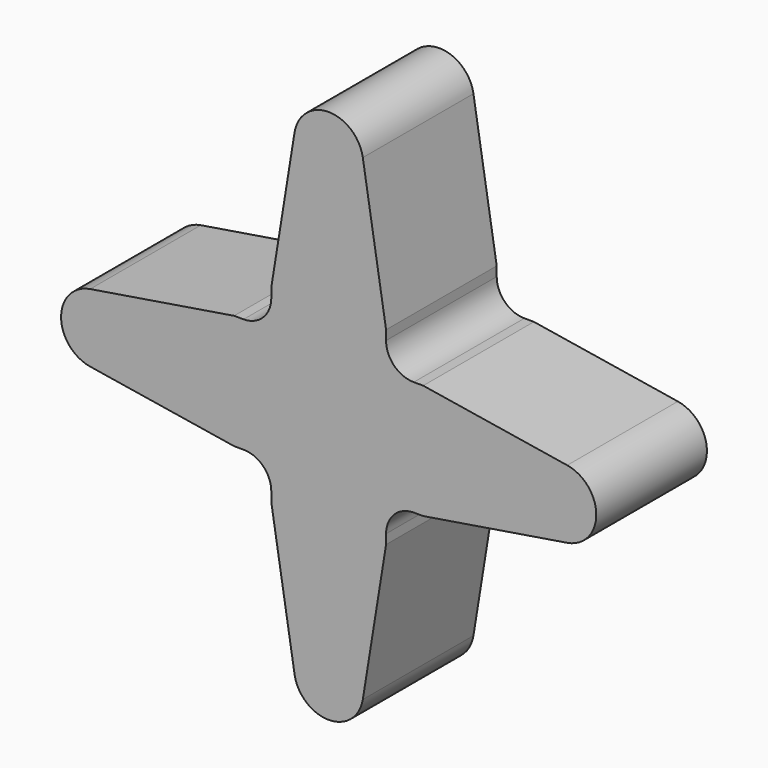
from build123d import *

# Parameters (mm, degrees)
PAD_DEPTH = 10


with BuildPart() as part:
    # Sketch → Pad (new body)
    with BuildSketch(Plane.XZ):
        with BuildLine():
            Line((-6.836766, 4.15), (-6.15, 4.15))
            ThreePointArc((-6.15, 4.15), (-4.735786, 4.735786), (-4.15, 6.15))
            Line((-4.15, 6.15), (-4.15, 6.836766))
            Line((-4.15, 6.836766), (-2.468004, 17.248694))
            ThreePointArc((2.468004, 17.248694), (0, 19.35), (-2.468004, 17.248694))
            Line((2.468004, 17.248694), (4.15, 6.836766))
            Line((4.15, 6.836766), (4.15, 6.15))
            ThreePointArc((4.15, 6.15), (4.735786, 4.735786), (6.15, 4.15))
            Line((6.15, 4.15), (6.836766, 4.15))
            Line((6.836766, 4.15), (17.248715, 2.468004))
            ThreePointArc((17.248715, -2.468004), (19.350021, 0), (17.248715, 2.468004))
            Line((17.248715, -2.468004), (6.836766, -4.15))
            Line((6.836766, -4.15), (6.15, -4.15))
            ThreePointArc((6.15, -4.15), (4.735786, -4.735786), (4.15, -6.15))
            Line((4.15, -6.15), (4.15, -6.836766))
            Line((4.15, -6.836766), (2.468004, -17.248694))
            ThreePointArc((-2.468004, -17.248694), (0, -19.35), (2.468004, -17.248694))
            Line((-2.468004, -17.248694), (-4.15, -6.836766))
            Line((-4.15, -6.836766), (-4.15, -6.15))
            ThreePointArc((-4.15, -6.15), (-4.735786, -4.735786), (-6.15, -4.15))
            Line((-6.15, -4.15), (-6.836766, -4.15))
            Line((-6.836766, -4.15), (-17.248715, -2.468004))
            ThreePointArc((-17.248715, 2.468004), (-19.350021, 0), (-17.248715, -2.468004))
            Line((-17.248715, 2.468004), (-6.836766, 4.15))
        make_face()
    extrude(amount=PAD_DEPTH)


solid = part.part
